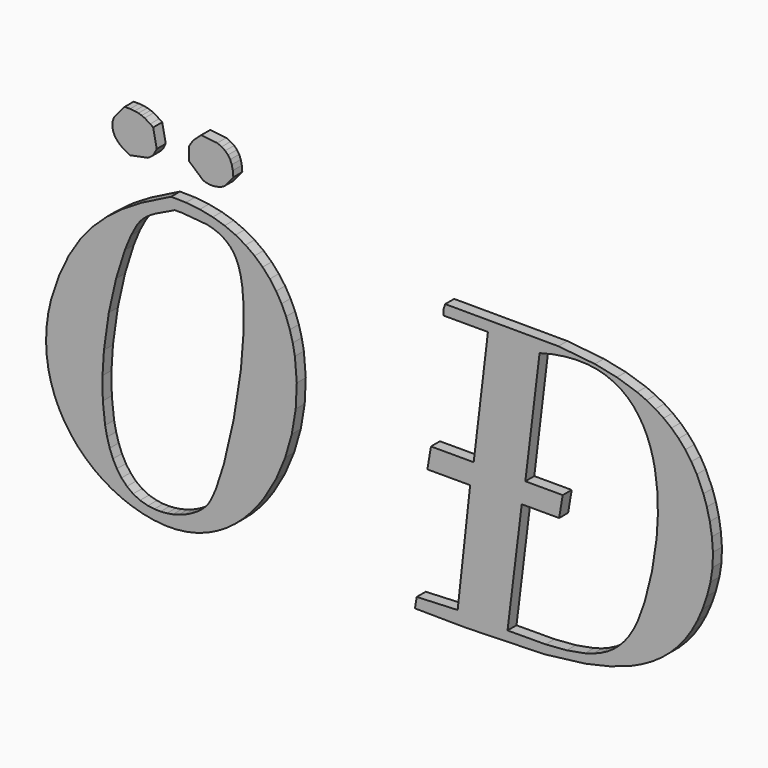
from build123d import *

# Parameters (mm, degrees)
F1_DEPTH = 0.5


with BuildPart() as f1:
    # F0 (on Front) → F1 (new body)
    with BuildSketch(Plane.XZ):
        Polygon((-3.394192, 4.9527), (-3.837062, 5.203188), (-4.322781, 5.411928), (-4.852077, 5.575747), (-5.425809, 5.691958), (-6.044826, 5.757388), (-6.709745, 5.769107), (-8.050932, 5.089663), (-8.841945, 4.601626), (-9.553859, 4.066348), (-10.189725, 3.466616), (-10.752226, 2.786196), (-11.244411, 2.007998), (-11.66934, 1.115786), (-12.04251, 0.019961), (-12.170805, -0.567442), (-12.244778, -1.139219), (-12.26675, -1.694029), (-12.239164, -2.230527), (-12.164334, -2.747251), (-12.044704, -3.242978), (-11.882717, -3.716245), (-11.680691, -4.165464), (-11.441069, -4.589658), (-11.166288, -4.987119), (-10.858549, -5.356626), (-10.520293, -5.696714), (-10.154082, -6.006162), (-9.762356, -6.283506), (-9.347195, -6.527158), (-8.911161, -6.736021), (-8.456571, -6.908628), (-7.985989, -7.043516), (-7.501858, -7.139463), (-6.985503, -7.191099), (-6.485256, -7.185728), (-6.001981, -7.126158), (-5.536529, -7.015562), (-5.089505, -6.856748), (-4.662136, -6.652891), (-4.254667, -6.407041), (-3.868314, -6.122007), (-3.503813, -5.800962), (-3.161894, -5.446592), (-2.843289, -5.062193), (-2.54898, -4.650693), (-2.03616, -3.758237), (-1.630033, -2.793272), (-1.336942, -1.7796), (-1.163358, -0.741392), (-1.115749, 0.297549), (-1.200466, 1.313174), (-1.294585, 1.804751), (-1.424222, 2.281557), (-1.590116, 2.740542), (-1.793241, 3.178774), (-2.034331, 3.593081), (-2.314115, 3.980654), (-2.633451, 4.338442), (-2.993191, 4.663515), align=None)
        Polygon((-6.769436, 5.186099), (-6.551421, 5.294375), (-6.222682, 5.298648), (-5.088406, 5.197939), (-4.850371, 5.134707), (-4.630642, 5.052675), (-4.429592, 4.950137), (-4.246975, 4.825381), (-4.083036, 4.676699), (-3.937772, 4.502261), (-3.803863, 4.273623), (-3.694365, 3.995791), (-3.607938, 3.673281), (-3.543483, 3.310366), (-3.475124, 2.481631), (-3.47952, 1.545351), (-3.600614, 0.017153), (-3.923735, -2.063901), (-4.358547, -3.93292), (-4.710233, -5.02374), (-4.938262, -5.53607), (-5.046537, -5.714292), (-5.16226, -5.856748), (-5.306548, -5.997495), (-5.476957, -6.133481), (-5.670684, -6.2619), (-5.885037, -6.379576), (-6.117458, -6.483946), (-6.365018, -6.571958), (-6.625394, -6.640684), (-6.895656, -6.687192), (-7.173246, -6.708799), (-7.455474, -6.702207), (-7.739531, -6.664732), (-8.087063, -6.566587), (-8.397, -6.413999), (-8.670925, -6.210508), (-8.910185, -5.960264), (-9.116361, -5.666929), (-9.290921, -5.334287), (-9.435451, -4.966245), (-9.551542, -4.566587), (-9.640532, -4.139097), (-9.743559, -3.216001), (-9.756865, -2.227598), (-9.692287, -1.204282), (-9.476224, 0.329043), (-9.15335, 1.768862), (-8.764675, 3.012026), (-8.489287, 3.680605), (-8.214871, 4.18561), (-8.077054, 4.36896), (-7.923978, 4.526064), (-7.757353, 4.661562), (-7.578275, 4.780337), (-7.388456, 4.887392), align=None, mode=Mode.SUBTRACT)
        Polygon((-4.650908, 8.540957), (-5.363433, 8.620181), (-5.673366, 8.342592), (-5.75552, 8.24689), (-5.835356, 8.131899), (-5.917629, 7.986758), (-5.917629, 7.432559), (-5.284207, 6.878359), (-5.1481, 6.829165), (-5.001979, 6.803774), (-4.851958, 6.800112), (-4.70425, 6.815859), (-4.564604, 6.848696), (-4.439114, 6.89667), (-4.334135, 6.957461), (-3.93826, 7.432437), (-3.960843, 7.688174), (-4.006742, 7.903018), (-4.077787, 8.082095), (-4.17581, 8.23041), (-4.302761, 8.352847), (-4.460478, 8.454775), align=None)
        Polygon((-7.343656, 7.432437), (-7.502103, 8.224185), (-7.635525, 8.317202), (-7.882962, 8.468569), (-8.01321, 8.52582), (-8.158842, 8.570131), (-8.327907, 8.601016), (-8.528469, 8.617862), (-8.768825, 8.620181), (-9.243923, 8.065981), (-9.309719, 7.857485), (-9.320827, 7.665713), (-9.285184, 7.490786), (-9.210723, 7.332949), (-9.105375, 7.191958), (-8.976834, 7.068057), (-8.832915, 6.961245), (-8.681914, 6.871523), (-8.531401, 6.799136), (-7.739531, 6.957461), (-7.615017, 7.037661), (-7.529447, 7.113589), (-7.466579, 7.197085), align=None)
        Polygon((14.024632, 4.857974), (13.12497, 5.148501), (12.141695, 5.349917), (10.522188, 5.517397), (5.486665, 5.531557), (5.407443, 5.294131), (5.407443, 5.056704), (7.387301, 5.056582), (6.753513, -0.249815), (4.853001, -0.249815), (4.694795, -1.199766), (6.595308, -1.20001), (6.040742, -6.268736), (4.219455, -6.347959), (4.140353, -6.82269), (5.692964, -6.839292), (6.442966, -6.843565), (9.904025, -6.745908), (11.725558, -6.521909), (12.822726, -6.271177), (13.820039, -5.920835), (14.279516, -5.703428), (14.712253, -5.455381), (15.117282, -5.174497), (15.49411, -4.85919), (15.842015, -4.507139), (16.160371, -4.116514), (16.448581, -3.685361), (16.706029, -3.211851), (16.931856, -2.693906), (17.125586, -2.129453), (17.286474, -1.51666), (17.378391, -0.918272), (17.395237, -0.314634), (17.350191, 0.278628), (17.256075, 0.845766), (17.125705, 1.371279), (16.972014, 1.839419), (16.676852, 2.505679), (16.435275, 2.923525), (16.166845, 3.302187), (15.871795, 3.64374), (15.551122, 3.949892), (15.205295, 4.222353), (14.83518, 4.463442), (14.44138, 4.674624), align=None)
        Polygon((10.713106, -0.249815), (9.050021, -0.249448), (9.683812, 4.977602), (10.274263, 5.121157), (10.82346, 5.20978), (11.332368, 5.245913), (11.802098, 5.232241), (12.234105, 5.171206), (12.629123, 5.065615), (12.988621, 4.918032), (13.313694, 4.73102), (13.60544, 4.507265), (13.864966, 4.249087), (14.093602, 3.959658), (14.292331, 3.641055), (14.462376, 3.296206), (14.604831, 2.927676), (14.720918, 2.538027), (14.811987, 2.129946), (14.922822, 1.268618), (14.946507, 0.364687), (14.89255, -0.560972), (14.686005, -1.944517), (14.356659, -3.259214), (14.04758, -4.104917), (13.870576, -4.465513), (13.676727, -4.787168), (13.46408, -5.071958), (13.231052, -5.321958), (12.976045, -5.539365), (12.697605, -5.725889), (12.39377, -5.883603), (12.063326, -6.014829), (11.704316, -6.121397), (10.894382, -6.268614), (9.951265, -6.341734), (8.258151, -6.347715), (8.891573, -1.199888), (10.554781, -1.199766), align=None, mode=Mode.SUBTRACT)
    extrude(amount=F1_DEPTH)


solid = f1.part
